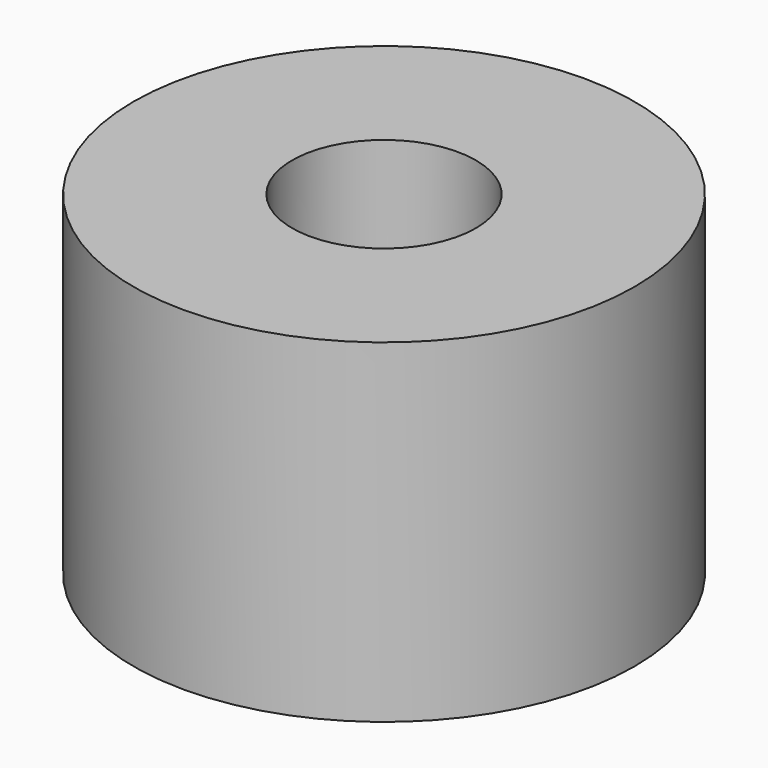
from build123d import *

# Parameters (mm, degrees)
CYLINDER1403_R     = 1
CYLINDER1403_DEPTH = 20
CYLINDER1405_R     = 1
CYLINDER1405_DEPTH = 20
CYLINDER1406_R     = 1
CYLINDER1406_DEPTH = 20
CYLINDER1399_R     = 1
CYLINDER1399_DEPTH = 20
TUBE129_R          = 7.5
TUBE129_R_2        = 2.75
TUBE129_DEPTH      = 10


with BuildPart() as obj1:
    # Cylinder1403 → Cylinder1403 (new body)
    with BuildSketch(Plane(origin=(4, -4, -88), x_dir=(0, 1, 0), z_dir=(0, 0, 1))):
        Circle(CYLINDER1403_R)
    extrude(amount=CYLINDER1403_DEPTH)


with BuildPart() as obj2:
    # Cylinder1405 → Cylinder1405 (new body)
    with BuildSketch(Plane(origin=(4, 4, -88), x_dir=(-1, 0, 0), z_dir=(0, 0, 1))):
        Circle(CYLINDER1405_R)
    extrude(amount=CYLINDER1405_DEPTH)


with BuildPart() as obj3:
    # Cylinder1406 → Cylinder1406 (new body)
    with BuildSketch(Plane(origin=(-4, 4, -88), x_dir=(0, -1, 0), z_dir=(0, 0, 1))):
        Circle(CYLINDER1406_R)
    extrude(amount=CYLINDER1406_DEPTH)


with BuildPart() as compound961:
    # Cylinder1399 → Cylinder1399 (new body)
    with BuildSketch(Plane(origin=(-4, -4, -88), x_dir=(1, 0, 0), z_dir=(0, 0, 1))):
        Circle(CYLINDER1399_R)
    extrude(amount=CYLINDER1399_DEPTH)

    # Compound961: union obj1, obj2, obj3
    add(obj1.part)
    add(obj2.part)
    add(obj3.part)


with BuildPart() as compound961_1:
    # Compound961 placement: moved
    add(compound961.part.moved(Location((0, 0, 91))))


with BuildPart() as cut504:
    # Tube129 → Tube129 (new body)
    with BuildSketch(Plane.XY.offset(19)):
        Circle(TUBE129_R)
        Circle(TUBE129_R_2, mode=Mode.SUBTRACT)
    extrude(amount=TUBE129_DEPTH)

    # Cut504: cut Compound961
    add(compound961_1.part, mode=Mode.SUBTRACT)


solid = cut504.part
